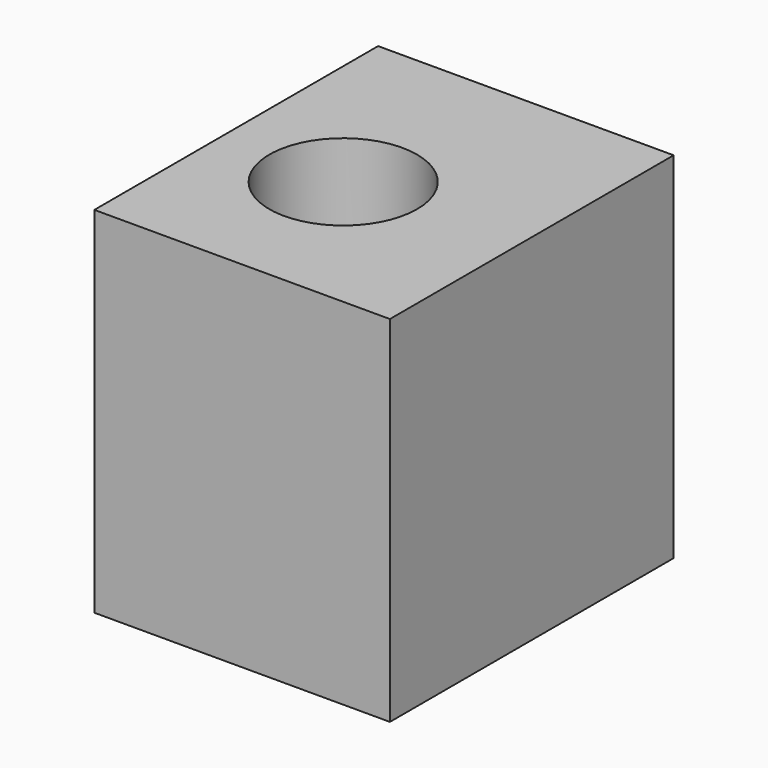
from build123d import *

# Parameters (mm, degrees)
F0_W     = 50
F0_H     = 60
F1_DEPTH = 35
F2_W     = 50
F2_H     = 60
F2_R     = 12.5
F3_DEPTH = 25
F4_R     = 15
F5_DEPTH = 30


with BuildPart() as f1:
    # F0 (on Top) → F1 (new body)
    with BuildSketch(Plane.XY):
        with Locations((25, 30)):
            Rectangle(F0_W, F0_H)
    extrude(amount=F1_DEPTH)

    # F2 (on face) → F3 (join)
    with BuildSketch(Plane.XY.offset(35)):
        with Locations((25, 30)):
            Rectangle(F2_W, F2_H)
        with Locations((20.667605, 26.786247)):
            Circle(F2_R, mode=Mode.SUBTRACT)
    extrude(amount=F3_DEPTH)

    # F4 (on face) → F5 (join)
    with BuildSketch(Plane(origin=(0, 0, 0), x_dir=(0, -1, 0), z_dir=(-1, 0, 0))):
        with Locations((-29.429901, 20.344391)):
            Circle(F4_R)
    extrude(amount=-F5_DEPTH)


solid = f1.part
